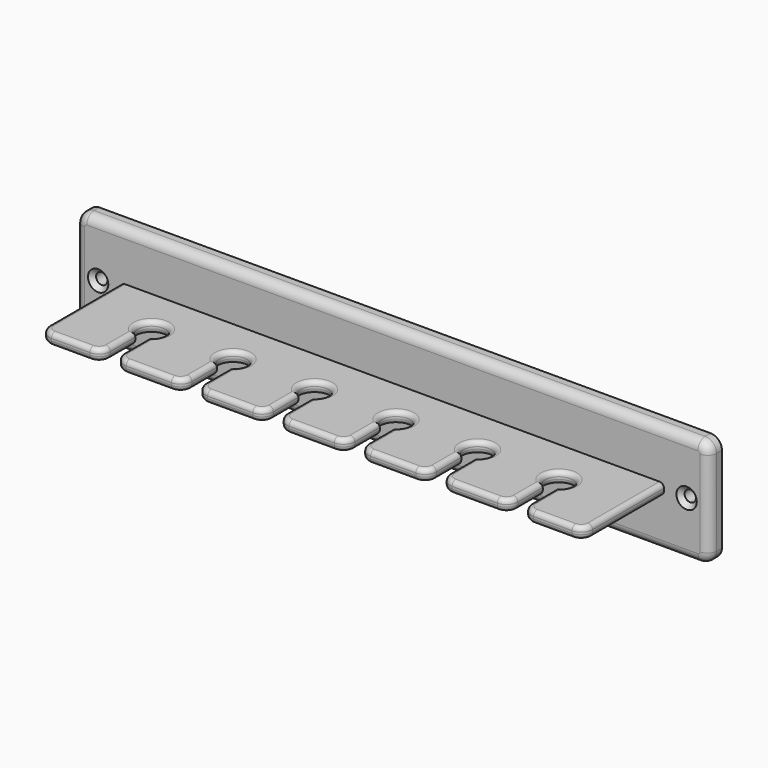
from build123d import *

# Parameters (mm, degrees)
F6_DEPTH  = 25
F7_R      = 20
F9_R      = 25
F10_DEPTH = 35
F12_R     = 40
F13_SIZE  = 20


with BuildPart() as f6:
    # F5 (on Top) → F6 (new body, symmetric)
    with BuildSketch(Plane.XY):
        with BuildLine():
            Line((1200, -190), (1200, 240))
            Line((1200, 240), (-1200, 240))
            Line((-1200, 240), (-1200, -190))
            ThreePointArc((-1200, -190), (-1185.3553390593, -225.3553390593), (-1150, -240))
            Line((-1150, -240), (-980, -240))
            ThreePointArc((-980, -240), (-944.6446609407, -225.3553390593), (-930, -190))
            Line((-930, -190), (-930, -51.9615242271))
            ThreePointArc((-930, -51.9615242271), (-900, 60), (-870, -51.9615242271))
            Line((-870, -51.9615242271), (-870, -190))
            ThreePointArc((-870, -190), (-855.3553390593, -225.3553390593), (-820, -240))
            Line((-820, -240), (-620, -240))
            ThreePointArc((-620, -240), (-584.6446609407, -225.3553390593), (-570, -190))
            Line((-570, -190), (-570, -51.9615242271))
            ThreePointArc((-570, -51.9615242271), (-540, 60), (-510, -51.9615242271))
            Line((-510, -51.9615242271), (-510, -190))
            ThreePointArc((-510, -190), (-495.3553390593, -225.3553390593), (-460, -240))
            Line((-460, -240), (-260, -240))
            ThreePointArc((-260, -240), (-224.6446609407, -225.3553390593), (-210, -190))
            Line((-210, -190), (-210, -51.9615242271))
            ThreePointArc((-210, -51.9615242271), (-180, 60), (-150, -51.9615242271))
            Line((-150, -51.9615242271), (-150, -190))
            ThreePointArc((-150, -190), (-135.3553390593, -225.3553390593), (-100, -240))
            Line((-100, -240), (100, -240))
            ThreePointArc((100, -240), (135.3553390593, -225.3553390593), (150, -190))
            Line((150, -190), (150, -51.9615242271))
            ThreePointArc((150, -51.9615242271), (180, 60), (210, -51.9615242271))
            Line((210, -51.9615242271), (210, -190))
            ThreePointArc((210, -190), (224.6446609407, -225.3553390593), (260, -240))
            Line((260, -240), (460, -240))
            ThreePointArc((460, -240), (495.3553390593, -225.3553390593), (510, -190))
            Line((510, -190), (510, -51.9615242271))
            ThreePointArc((510, -51.9615242271), (540, 60), (570, -51.9615242271))
            Line((570, -51.9615242271), (570, -190))
            ThreePointArc((570, -190), (584.6446609407, -225.3553390593), (620, -240))
            Line((620, -240), (820, -240))
            ThreePointArc((820, -240), (855.3553390593, -225.3553390593), (870, -190))
            Line((870, -190), (870, -51.9615242271))
            ThreePointArc((870, -51.9615242271), (900, 60), (930, -51.9615242271))
            Line((930, -51.9615242271), (930, -190))
            ThreePointArc((930, -190), (944.6446609407, -225.3553390593), (980, -240))
            Line((980, -240), (1150, -240))
            ThreePointArc((1150, -240), (1185.3553390593, -225.3553390593), (1200, -190))
        make_face()
    extrude(amount=F6_DEPTH, both=True)

    # F7
    f7_edges = [f6.edges().sort_by_distance(p)[0] for p in [
        (-720, -240, 25),
        (-930, -120.980762, 25),
        (-900, 60, 25),
        (-944.644661, -225.355339, 25),
        (-1065, -240, 25),
        (-1185.355339, -225.355339, 25),
        (-1200, 25, 25),
        (-584.644661, -225.355339, 25),
        (-570, -120.980762, 25),
        (-540, 60, 25),
        (-510, -120.980762, 25),
        (-495.355339, -225.355339, 25),
        (-360, -240, 25),
        (-224.644661, -225.355339, 25),
        (-210, -120.980762, 25),
        (-180, 60, 25),
        (-150, -120.980762, 25),
        (-135.355339, -225.355339, 25),
        (0, -240, 25),
        (135.355339, -225.355339, 25),
        (150, -120.980762, 25),
        (180, 60, 25),
        (210, -120.980762, 25),
        (224.644661, -225.355339, 25),
        (360, -240, 25),
        (495.355339, -225.355339, 25),
        (510, -120.980762, 25),
        (540, 60, 25),
        (570, -120.980762, 25),
        (584.644661, -225.355339, 25),
        (720, -240, 25),
        (855.355339, -225.355339, 25),
        (870, -120.980762, 25),
        (900, 60, 25),
        (930, -120.980762, 25),
        (944.644661, -225.355339, 25),
        (1065, -240, 25),
        (1185.355339, -225.355339, 25),
        (1200, 25, 25),
        (1065, -240, -25),
        (1185.355339, -225.355339, -25),
        (1200, 25, -25),
        (944.644661, -225.355339, -25),
        (930, -120.980762, -25),
        (900, 60, -25),
        (870, -120.980762, -25),
        (855.355339, -225.355339, -25),
        (720, -240, -25),
        (584.644661, -225.355339, -25),
        (570, -120.980762, -25),
        (540, 60, -25),
        (510, -120.980762, -25),
        (495.355339, -225.355339, -25),
        (360, -240, -25),
        (224.644661, -225.355339, -25),
        (210, -120.980762, -25),
        (180, 60, -25),
        (150, -120.980762, -25),
        (135.355339, -225.355339, -25),
        (0, -240, -25),
        (-135.355339, -225.355339, -25),
        (-150, -120.980762, -25),
        (-180, 60, -25),
        (-210, -120.980762, -25),
        (-224.644661, -225.355339, -25),
        (-360, -240, -25),
        (-495.355339, -225.355339, -25),
        (-510, -120.980762, -25),
        (-540, 60, -25),
        (-570, -120.980762, -25),
        (-584.644661, -225.355339, -25),
        (-720, -240, -25),
        (-855.355339, -225.355339, -25),
        (-870, -120.980762, -25),
        (-900, 60, -25),
        (-930, -120.980762, -25),
        (-944.644661, -225.355339, -25),
        (-1065, -240, -25),
        (-1185.355339, -225.355339, -25),
        (-1200, 25, -25),
    ]]
    fillet(f7_edges, radius=F7_R)


with BuildPart() as f10:
    # F9 (on offset) → F10 (new body, symmetric)
    with BuildSketch(Plane.XZ.offset(-240)):
        with BuildLine():
            Line((-1350, -240), (1350, -240))
            ThreePointArc((1350, -240), (1385.3553390593, -225.3553390593), (1400, -190))
            Line((1400, -190), (1400, 190))
            ThreePointArc((1400, 190), (1385.3553390593, 225.3553390593), (1350, 240))
            Line((1350, 240), (-1350, 240))
            ThreePointArc((-1350, 240), (-1385.3553390593, 225.3553390593), (-1400, 190))
            Line((-1400, 190), (-1400, -190))
            ThreePointArc((-1400, -190), (-1385.3553390593, -225.3553390593), (-1350, -240))
        make_face()
        with Locations((-1300, 0)):
            Circle(F9_R, mode=Mode.SUBTRACT)
        with Locations((1300, 0)):
            Circle(F9_R, mode=Mode.SUBTRACT)
    extrude(amount=F10_DEPTH, both=True)

    # F11: cut F6
    add(f6.part, mode=Mode.SUBTRACT)

    # F12
    f12_edges = [f10.edges().sort_by_distance(p)[0] for p in [
        (0, 205, -240),
        (-1400, 205, 0),
        (-1385.355339, 205, -225.355339),
        (-1385.355339, 205, 225.355339),
        (0, 205, 240),
        (1385.355339, 205, 225.355339),
        (1400, 205, 0),
        (1385.355339, 205, -225.355339),
    ]]
    fillet(f12_edges, radius=F12_R)

    # F13
    f13_edges = [f10.edges().sort_by_distance(p)[0] for p in [
        (-1325, 205, 0),
        (1275, 205, 0),
    ]]
    chamfer(f13_edges, length=F13_SIZE)


solid = Compound([f6.part, f10.part])
